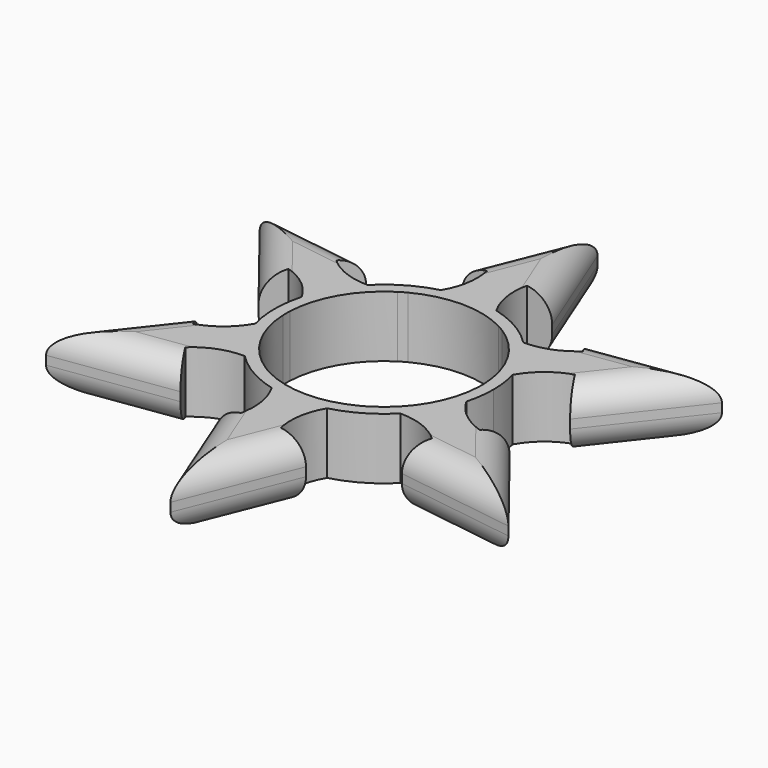
from build123d import *

# Parameters (mm, degrees)
F1_DEPTH = 7
F2_R     = 3


with BuildPart() as f1:
    # F0 (on Top) → F1 (new body)
    with BuildSketch(Plane.XY):
        with BuildLine():
            ThreePointArc((11.139936974, 0.4736076595), (11.1474839596, 0.2368572775), (11.15, 0))
            ThreePointArc((11.15, 0), (11.1474839596, -0.2368572775), (11.139936974, -0.4736076595))
            ThreePointArc((11.139936974, -0.4736076595), (11.4562515521, -1.9356574125), (12.0547261732, -3.306595967))
            ThreePointArc((12.0547261732, -3.306595967), (12.3881814074, -1.6682210338), (12.5, 0))
            ThreePointArc((12.5, 0), (12.3881814074, 1.6682210338), (12.0547261732, 3.306595967))
            ThreePointArc((12.0547261732, 3.306595967), (11.4562515521, 1.9356574125), (11.139936974, 0.4736076595))
        make_face()
        with BuildLine():
            ThreePointArc((5.9801247516, 9.4106645863), (9.6561832522, 5.575), (11.139936974, 0.4736076595))
            ThreePointArc((11.139936974, 0.4736076595), (11.4562515521, 1.9356574125), (12.0547261732, 3.306595967))
            ThreePointArc((12.0547261732, 3.306595967), (10.8253175473, 6.25), (8.8909591941, 8.7864011181))
            ThreePointArc((8.8909591941, 8.7864011181), (7.4044542683, 8.9535761701), (5.9801247516, 9.4106645863))
        make_face()
        with BuildLine():
            ThreePointArc((12.0547261732, -3.306595967), (11.4562515521, -1.9356574125), (11.139936974, -0.4736076595))
            ThreePointArc((11.139936974, -0.4736076595), (9.6561832522, -5.575), (5.9801247516, -9.4106645863))
            ThreePointArc((5.9801247516, -9.4106645863), (7.4044542683, -8.9535761701), (8.8909591941, -8.7864011181))
            ThreePointArc((8.8909591941, -8.7864011181), (10.8253175473, -6.25), (12.0547261732, -3.306595967))
        make_face()
        with BuildLine():
            ThreePointArc((5.1598122224, 9.8842722458), (5.575, 9.6561832522), (5.9801247516, 9.4106645863))
            ThreePointArc((5.9801247516, 9.4106645863), (7.4044542683, 8.9535761701), (8.8909591941, 8.7864011181))
            ThreePointArc((8.8909591941, 8.7864011181), (6.25, 10.8253175473), (3.1637669791, 12.0929970852))
            ThreePointArc((3.1637669791, 12.0929970852), (4.0517972839, 10.8892335825), (5.1598122224, 9.8842722458))
        make_face()
        with BuildLine():
            ThreePointArc((8.8909591941, 8.7864011181), (10.8253175473, 6.25), (12.0547261732, 3.306595967))
            ThreePointArc((12.0547261732, 3.306595967), (13.8777539277, 5.4728270333), (16.3707526215, 6.8148198569))
            Line((16.3707526215, 6.8148198569), (17.8056945141, 4.3294275931))
            Line((17.8056945141, 4.3294275931), (26.4132363375, 15.2496891096))
            Line((26.4132363375, 15.2496891096), (12.6522415365, 13.2554699846))
            Line((12.6522415365, 13.2554699846), (14.087183429, 10.7700777209))
            ThreePointArc((14.087183429, 10.7700777209), (11.6784842052, 9.2820739322), (8.8909591941, 8.7864011181))
        make_face()
        with BuildLine():
            ThreePointArc((8.8909591941, -8.7864011181), (7.4044542683, -8.9535761701), (5.9801247516, -9.4106645863))
            ThreePointArc((5.9801247516, -9.4106645863), (5.575, -9.6561832522), (5.1598122224, -9.8842722458))
            ThreePointArc((5.1598122224, -9.8842722458), (4.0517972839, -10.8892335825), (3.1637669791, -12.0929970852))
            ThreePointArc((3.1637669791, -12.0929970852), (6.25, -10.8253175473), (8.8909591941, -8.7864011181))
        make_face()
        with BuildLine():
            ThreePointArc((16.3707526215, -6.8148198569), (13.8777539277, -5.4728270333), (12.0547261732, -3.306595967))
            ThreePointArc((12.0547261732, -3.306595967), (10.8253175473, -6.25), (8.8909591941, -8.7864011181))
            ThreePointArc((8.8909591941, -8.7864011181), (11.6784842052, -9.2820739322), (14.087183429, -10.7700777209))
            Line((14.087183429, -10.7700777209), (12.6522415365, -13.2554699846))
            Line((12.6522415365, -13.2554699846), (26.4132363375, -15.2496891096))
            Line((26.4132363375, -15.2496891096), (17.8056945141, -4.3294275931))
            Line((17.8056945141, -4.3294275931), (16.3707526215, -6.8148198569))
        make_face()
        with BuildLine():
            ThreePointArc((-5.1598122224, 9.8842722458), (0, 11.15), (5.1598122224, 9.8842722458))
            ThreePointArc((5.1598122224, 9.8842722458), (4.0517972839, 10.8892335825), (3.1637669791, 12.0929970852))
            ThreePointArc((3.1637669791, 12.0929970852), (0, 12.5), (-3.1637669791, 12.0929970852))
            ThreePointArc((-3.1637669791, 12.0929970852), (-4.0517972839, 10.8892335825), (-5.1598122224, 9.8842722458))
        make_face()
        with BuildLine():
            ThreePointArc((3.1637669791, -12.0929970852), (4.0517972839, -10.8892335825), (5.1598122224, -9.8842722458))
            ThreePointArc((5.1598122224, -9.8842722458), (0, -11.15), (-5.1598122224, -9.8842722458))
            ThreePointArc((-5.1598122224, -9.8842722458), (-4.0517972839, -10.8892335825), (-3.1637669791, -12.0929970852))
            ThreePointArc((-3.1637669791, -12.0929970852), (0, -12.5), (3.1637669791, -12.0929970852))
        make_face()
        with BuildLine():
            ThreePointArc((-5.9801247516, 9.4106645863), (-5.575, 9.6561832522), (-5.1598122224, 9.8842722458))
            ThreePointArc((-5.1598122224, 9.8842722458), (-4.0517972839, 10.8892335825), (-3.1637669791, 12.0929970852))
            ThreePointArc((-3.1637669791, 12.0929970852), (-6.25, 10.8253175473), (-8.8909591941, 8.7864011181))
            ThreePointArc((-8.8909591941, 8.7864011181), (-7.4044542683, 8.9535761701), (-5.9801247516, 9.4106645863))
        make_face()
        with BuildLine():
            ThreePointArc((-3.1637669791, 12.0929970852), (0, 12.5), (3.1637669791, 12.0929970852))
            ThreePointArc((3.1637669791, 12.0929970852), (2.1992697225, 14.7549009655), (2.2835691925, 17.5848975778))
            Line((2.2835691925, 17.5848975778), (5.1534529775, 17.5848975778))
            Line((5.1534529775, 17.5848975778), (0, 30.4993782192))
            Line((0, 30.4993782192), (-5.1534529775, 17.5848975778))
            Line((-5.1534529775, 17.5848975778), (-2.2835691925, 17.5848975778))
            ThreePointArc((-2.2835691925, 17.5848975778), (-2.1992697225, 14.7549009655), (-3.1637669791, 12.0929970852))
        make_face()
        with BuildLine():
            ThreePointArc((-3.1637669791, -12.0929970852), (-4.0517972839, -10.8892335825), (-5.1598122224, -9.8842722458))
            ThreePointArc((-5.1598122224, -9.8842722458), (-5.575, -9.6561832522), (-5.9801247516, -9.4106645863))
            ThreePointArc((-5.9801247516, -9.4106645863), (-7.4044542683, -8.9535761701), (-8.8909591941, -8.7864011181))
            ThreePointArc((-8.8909591941, -8.7864011181), (-6.25, -10.8253175473), (-3.1637669791, -12.0929970852))
        make_face()
        with BuildLine():
            ThreePointArc((2.2835691925, -17.5848975778), (2.1992697225, -14.7549009655), (3.1637669791, -12.0929970852))
            ThreePointArc((3.1637669791, -12.0929970852), (0, -12.5), (-3.1637669791, -12.0929970852))
            ThreePointArc((-3.1637669791, -12.0929970852), (-2.1992697225, -14.7549009655), (-2.2835691925, -17.5848975778))
            Line((-2.2835691925, -17.5848975778), (-5.1534529775, -17.5848975778))
            Line((-5.1534529775, -17.5848975778), (0, -30.4993782192))
            Line((0, -30.4993782192), (5.1534529775, -17.5848975778))
            Line((5.1534529775, -17.5848975778), (2.2835691925, -17.5848975778))
        make_face()
        with BuildLine():
            ThreePointArc((-11.139936974, 0.4736076595), (-9.6561832522, 5.575), (-5.9801247516, 9.4106645863))
            ThreePointArc((-5.9801247516, 9.4106645863), (-7.4044542683, 8.9535761701), (-8.8909591941, 8.7864011181))
            ThreePointArc((-8.8909591941, 8.7864011181), (-10.8253175473, 6.25), (-12.0547261732, 3.306595967))
            ThreePointArc((-12.0547261732, 3.306595967), (-11.4562515521, 1.9356574125), (-11.139936974, 0.4736076595))
        make_face()
        with BuildLine():
            ThreePointArc((-8.8909591941, -8.7864011181), (-7.4044542683, -8.9535761701), (-5.9801247516, -9.4106645863))
            ThreePointArc((-5.9801247516, -9.4106645863), (-9.6561832522, -5.575), (-11.139936974, -0.4736076595))
            ThreePointArc((-11.139936974, -0.4736076595), (-11.4562515521, -1.9356574125), (-12.0547261732, -3.306595967))
            ThreePointArc((-12.0547261732, -3.306595967), (-10.8253175473, -6.25), (-8.8909591941, -8.7864011181))
        make_face()
        with BuildLine():
            ThreePointArc((-11.139936974, -0.4736076595), (-11.15, 0), (-11.139936974, 0.4736076595))
            ThreePointArc((-11.139936974, 0.4736076595), (-11.4562515521, 1.9356574125), (-12.0547261732, 3.306595967))
            ThreePointArc((-12.0547261732, 3.306595967), (-12.5, 0), (-12.0547261732, -3.306595967))
            ThreePointArc((-12.0547261732, -3.306595967), (-11.4562515521, -1.9356574125), (-11.139936974, -0.4736076595))
        make_face()
        with BuildLine():
            ThreePointArc((-12.0547261732, 3.306595967), (-10.8253175473, 6.25), (-8.8909591941, 8.7864011181))
            ThreePointArc((-8.8909591941, 8.7864011181), (-11.6784842052, 9.2820739322), (-14.087183429, 10.7700777209))
            Line((-14.087183429, 10.7700777209), (-12.6522415365, 13.2554699846))
            Line((-12.6522415365, 13.2554699846), (-26.4132363375, 15.2496891096))
            Line((-26.4132363375, 15.2496891096), (-17.8056945141, 4.3294275931))
            Line((-17.8056945141, 4.3294275931), (-16.3707526215, 6.8148198569))
            ThreePointArc((-16.3707526215, 6.8148198569), (-13.8777539277, 5.4728270333), (-12.0547261732, 3.306595967))
        make_face()
        with BuildLine():
            ThreePointArc((-14.087183429, -10.7700777209), (-11.6784842052, -9.2820739322), (-8.8909591941, -8.7864011181))
            ThreePointArc((-8.8909591941, -8.7864011181), (-10.8253175473, -6.25), (-12.0547261732, -3.306595967))
            ThreePointArc((-12.0547261732, -3.306595967), (-13.8777539277, -5.4728270333), (-16.3707526215, -6.8148198569))
            Line((-16.3707526215, -6.8148198569), (-17.8056945141, -4.3294275931))
            Line((-17.8056945141, -4.3294275931), (-26.4132363375, -15.2496891096))
            Line((-26.4132363375, -15.2496891096), (-12.6522415365, -13.2554699846))
            Line((-12.6522415365, -13.2554699846), (-14.087183429, -10.7700777209))
        make_face()
    extrude(amount=F1_DEPTH)

    # F2
    f2_edges = [f1.edges().sort_by_distance(p)[0] for p in [
        (-19.532739, -14.25258, 0),
        (-22.109465, -9.789558, 0),
        (-22.109465, 9.789558, 0),
        (-19.532739, 14.25258, 0),
        (-2.576726, 24.042138, 0),
        (19.532739, 14.25258, 0),
        (22.109465, 9.789558, 0),
        (22.109465, -9.789558, 0),
        (19.532739, -14.25258, 0),
        (-2.576726, -24.042138, 0),
        (2.576726, -24.042138, 0),
        (2.576726, 24.042138, 0),
        (-19.532739, 14.25258, 7),
        (-22.109465, 9.789558, 7),
        (-2.576726, 24.042138, 7),
        (2.576726, 24.042138, 7),
        (22.109465, 9.789558, 7),
        (22.109465, -9.789558, 7),
        (19.532739, -14.25258, 7),
        (2.576726, -24.042138, 7),
        (-2.576726, -24.042138, 7),
        (-22.109465, -9.789558, 7),
        (-19.532739, -14.25258, 7),
        (19.532739, 14.25258, 7),
    ]]
    fillet(f2_edges, radius=F2_R)


solid = f1.part
